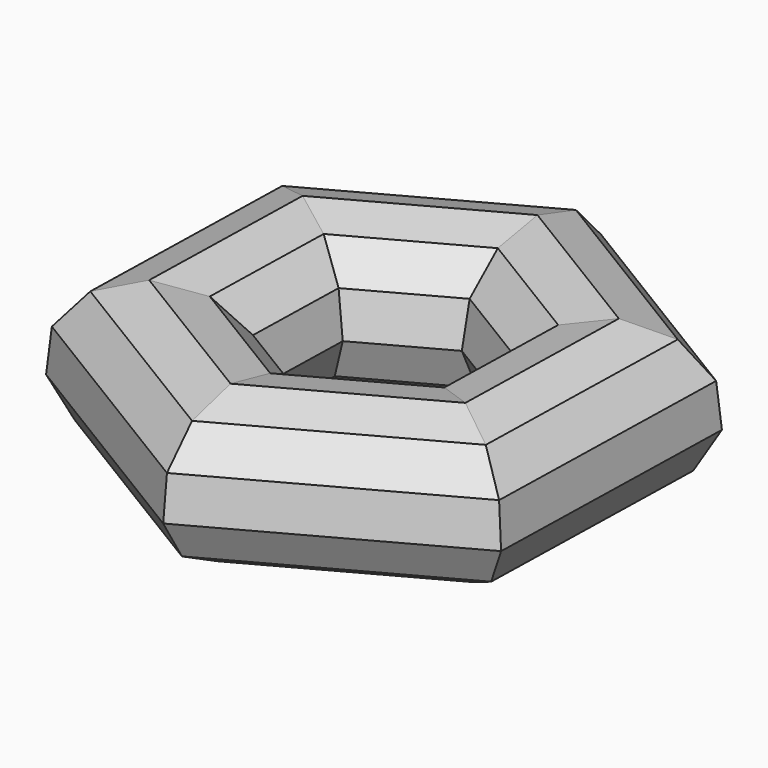
from build123d import *


with BuildPart() as f2:
    # F2: sweep along a path in F1
    with BuildLine(Plane.XY) as f2_path:
        Line((111.1026118188, -65.109723053), (55.505612987, -31.187103672))
        Line((55.505612987, -31.187103672), (57.0849637179, 33.922619381))
        Line((57.0849637179, 33.922619381), (114.2613132806, 65.109723053))
        Line((114.2613132806, 65.109723053), (169.8583121124, 31.187103672))
        Line((169.8583121124, 31.187103672), (168.2789613815, -33.922619381))
        Line((168.2789613815, -33.922619381), (111.1026118188, -65.109723053))
    # F0 (on Front) → F2 (sweep)
    with BuildSketch(Plane.XZ):
        Polygon((-12.6929697398, -52.8973966771), (17.9204861451, -51.3624593682), (42.8443142989, -33.5203041197), (54.1653753864, -5.0356891564), (48.2893125029, 25.0477215336), (27.0817340957, 47.1786576154), (-2.7241035365, 54.3307032528), (-31.6650575434, 44.2331344899), (-50.5525795149, 20.0918580627), (-53.3900146779, -10.428441337), (-39.2764974165, -37.6377842961), align=None)
    sweep(path=f2_path.line, transition=Transition.RIGHT)


solid = f2.part
